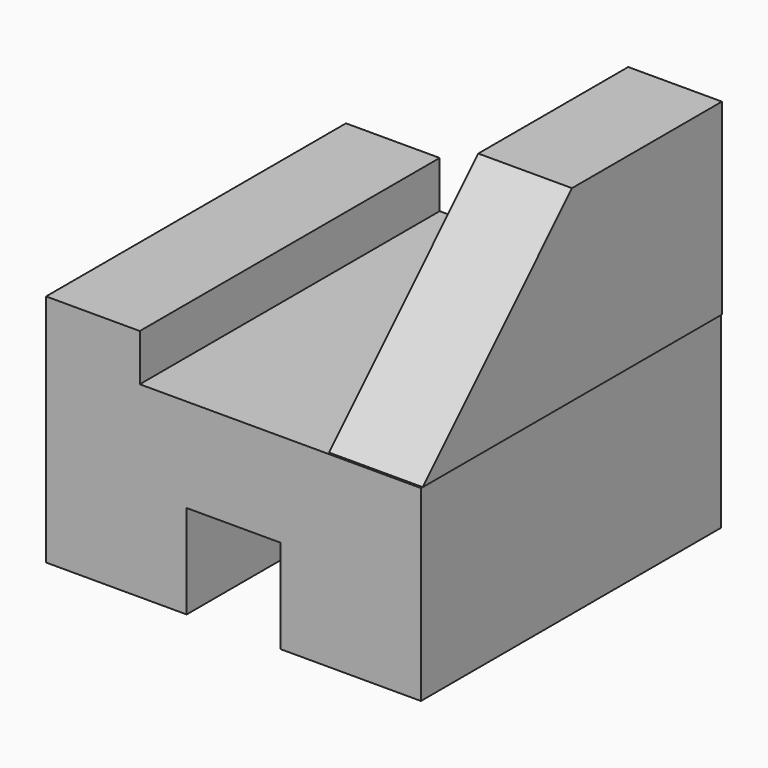
from build123d import *

# Parameters (mm, degrees)
F1_DEPTH = 101.6
F3_DEPTH = 56.134
F4_DEPTH = 30.734


with BuildPart() as f1:
    # F0 (on Front) → F1 (new body)
    with BuildSketch(Plane.XZ):
        Polygon((17.738884, -25.4), (55.838884, -25.4), (55.838884, 25.4), (-20.361116, 25.4), (-20.361116, 38.1), (-45.761116, 38.1), (-45.761116, -25.4), (-7.661116, -25.4), (-7.661116, 0), (17.738884, 0), align=None)
    extrude(amount=F1_DEPTH)


with BuildPart() as f3:
    # F2 (on Right) → F3 (new body)
    with BuildSketch(Plane.YZ):
        Polygon((-101.344168, 25.614712), (0, 25.614712), (0, 76.414712), (-50.8, 76.414712), align=None)
    extrude(amount=F3_DEPTH)

    # F3_face (on face) → F4 (cut)
    with BuildSketch(Plane(origin=(0, -39.435325, 48.201981), x_dir=(0, 1, 0), z_dir=(-1, 0, 0))):
        Polygon((39.435325, 22.587269), (-61.908843, 22.587269), (-11.364675, -28.212731), (39.435325, -28.212731), align=None)
    extrude(amount=-F4_DEPTH, mode=Mode.SUBTRACT)


solid = Compound([f1.part, f3.part])
